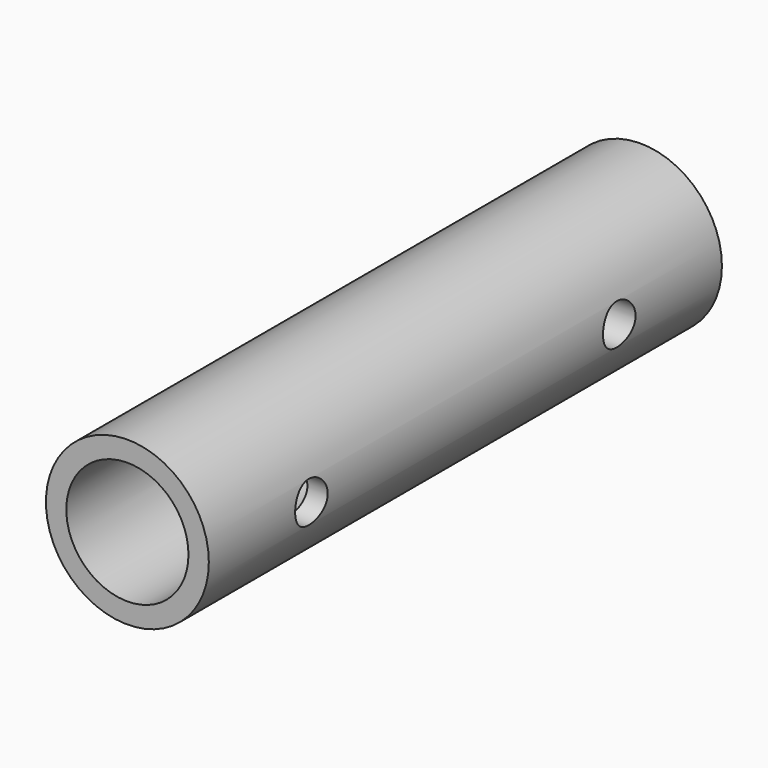
from build123d import *

# Parameters (mm, degrees)
F0_R     = 6.35
F1_DEPTH = 50
F2_R     = 1.5875
F3_DEPTH = 12.5
F4_R     = 4.7625
F5_DEPTH = 25


with BuildPart() as f1:
    # F0 (on Front) → F1 (new body)
    with BuildSketch(Plane.XZ):
        Circle(F0_R)
    extrude(amount=F1_DEPTH)

    # F2 (on Right) → F3 (cut, symmetric)
    with BuildSketch(Plane.YZ):
        with Locations((-10, 0)):
            Circle(F2_R)
        with Locations((-40, 0)):
            Circle(F2_R)
    extrude(amount=F3_DEPTH, both=True, mode=Mode.SUBTRACT)

    # F4 (on face) → F5 (cut)
    with BuildSketch(Plane.XZ.offset(50)):
        Circle(F4_R)
    extrude(amount=-F5_DEPTH, mode=Mode.SUBTRACT)


solid = f1.part
